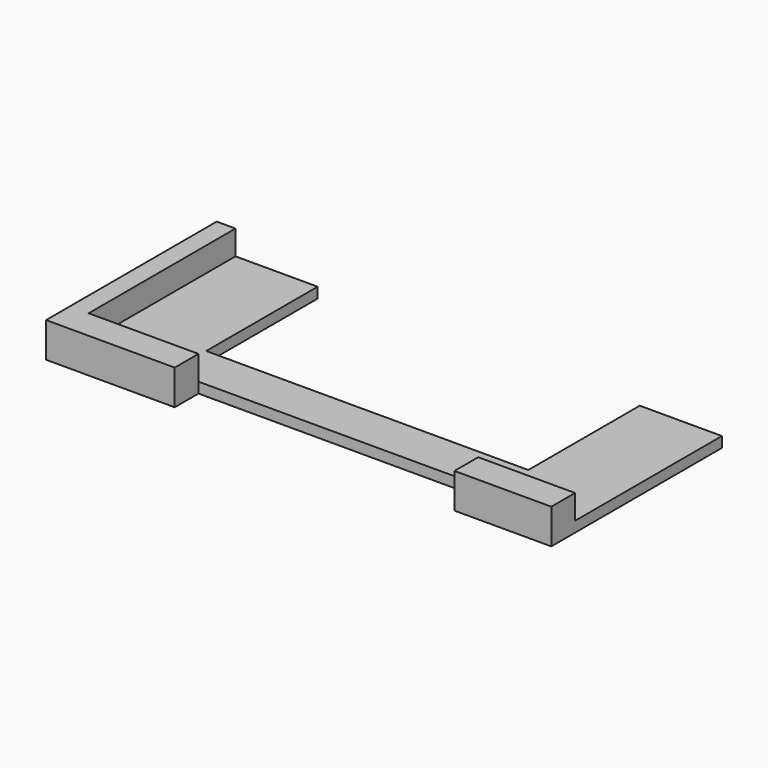
from build123d import *

# Parameters (mm, degrees)
F1_DEPTH = 2.4
F2_DEPTH = 8
F3_W     = 64.007707
F3_H     = 6.8
F4_DEPTH = 25
F5_W     = 73.7
F5_H     = 31.871149
F6_DEPTH = 25


with BuildPart() as f1:
    # F0 (on Top) → F1 (new body)
    with BuildSketch(Plane.XY):
        Polygon((-53.5, -17.5), (-53.5, 24.5), (-57.8, 24.5), (-57.8, -17.5), (-57.8, -24.3), (-53.5, -24.3), (53.1, -24.3), (57.8, -24.3), (57.8, -17.5), (53.1, -17.5), align=None)
        Polygon((53.1, 24.5), (-53.5, 24.5), (-53.5, -17.5), (53.1, -17.5), (57.8, -17.5), (57.8, 24.5), align=None)
    extrude(amount=F1_DEPTH)

    # F0 (on Top) → F2 (join)
    with BuildSketch(Plane.XY):
        Polygon((-53.5, -17.5), (-53.5, 24.5), (-57.8, 24.5), (-57.8, -17.5), (-57.8, -24.3), (-53.5, -24.3), (53.1, -24.3), (57.8, -24.3), (57.8, -17.5), (53.1, -17.5), align=None)
    extrude(amount=F2_DEPTH)

    # F3 (on face) → F4 (cut)
    with BuildSketch(Plane.XY.offset(8)):
        with Locations((3.638923, -20.9)):
            Rectangle(F3_W, F3_H)
    extrude(amount=-F4_DEPTH, mode=Mode.SUBTRACT)

    # F5 (on face) → F6 (cut)
    with BuildSketch(Plane.XY.offset(2.4)):
        with Locations((2.150001, 8.564426)):
            Rectangle(F5_W, F5_H)
    extrude(amount=-F6_DEPTH, mode=Mode.SUBTRACT)


solid = f1.part
